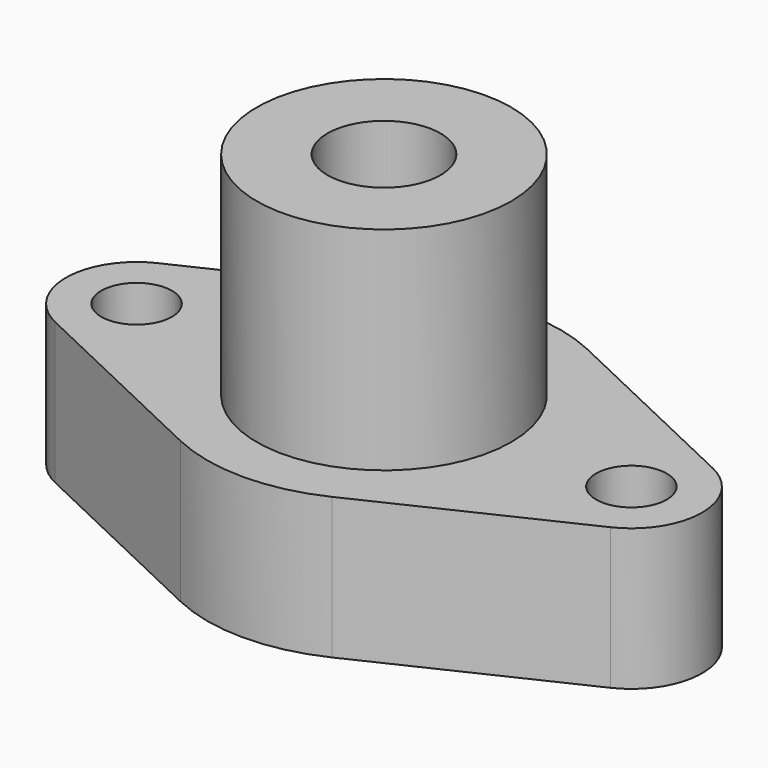
from build123d import *

# Parameters (mm, degrees)
F1_DEPTH = 20
F3_D     = 10
F2_R     = 18
F4_DEPTH = 30
F6_D     = 16
F6_DEPTH = 25
F6_TIP   = 4.8068849522


with BuildPart() as f1:
    # F0 (on Top) → F1 (new body)
    with BuildSketch(Plane.XY):
        with BuildLine():
            Line((-10.7142857143, 22.5876975726), (-39.2857142857, 9.0350790291))
            ThreePointArc((-39.2857142857, 9.0350790291), (-45, 0), (-39.2857142857, -9.0350790291))
            Line((-39.2857142857, -9.0350790291), (-10.7142857143, -22.5876975726))
            ThreePointArc((-10.7142857143, -22.5876975726), (0, -25), (10.7142857143, -22.5876975726))
            Line((10.7142857143, -22.5876975726), (39.2857142857, -9.0350790291))
            ThreePointArc((39.2857142857, -9.0350790291), (45, 0), (39.2857142857, 9.0350790291))
            Line((39.2857142857, 9.0350790291), (10.7142857143, 22.5876975726))
            ThreePointArc((10.7142857143, 22.5876975726), (0, 25), (-10.7142857143, 22.5876975726))
        make_face()
    extrude(amount=F1_DEPTH)

    # F3 (through all)
    with Locations(Plane.XY.offset(20)):
        with Locations((-35, 0), (35, 0)):
            Hole(F3_D / 2)

    # F2 (on face) → F4 (join)
    with BuildSketch(Plane.XY.offset(20)):
        Circle(F2_R)
    extrude(amount=F4_DEPTH)

    # F6
    with Locations(Plane.XY.offset(50)):
        with Locations((0, 0)):
            Hole(F6_D / 2, depth=F6_DEPTH)
            with Locations((0, 0, -(F6_DEPTH + F6_TIP / 2))):  # 118° drill point
                Cone(0, F6_D / 2, F6_TIP, mode=Mode.SUBTRACT)


solid = f1.part
